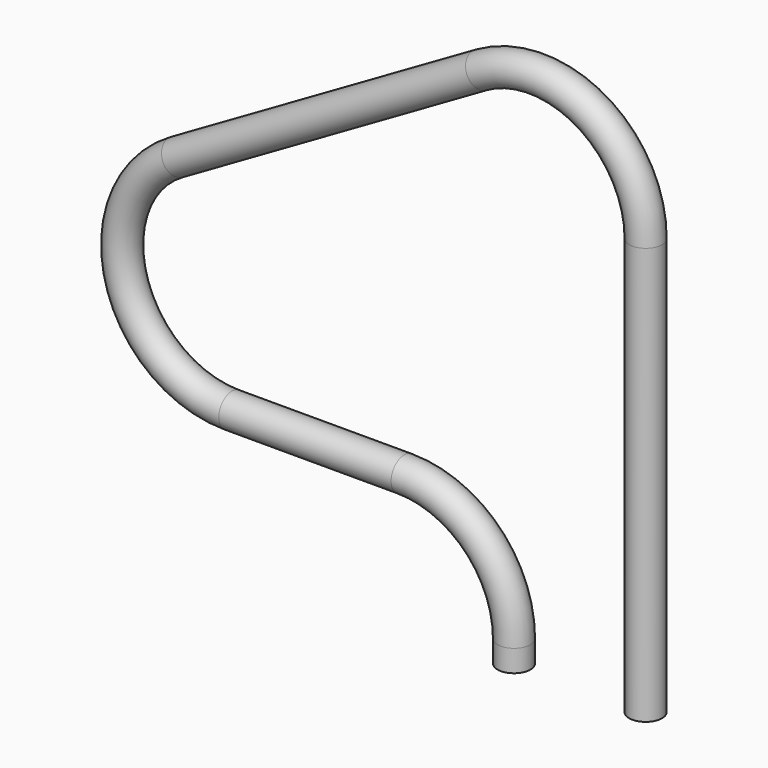
from build123d import *

# Parameters (mm, degrees)
F2_R = 38.1


with BuildPart() as f3:
    # F3: sweep along a path in F0
    with BuildLine(Plane.XZ) as f3_path:
        Line((-464.527881, 0), (-464.527881, 965.2))
        ThreePointArc((-464.527881, 965.2), (-591.527881, 1185.170453), (-845.527881, 1185.170453))
        Line((-845.527881, 1185.170453), (-1549.433329, 778.770453))
        ThreePointArc((-1549.433329, 778.770453), (-1667.778489, 493.059963), (-1422.433329, 304.8))
        Line((-1422.433329, 304.8), (-1023.327881, 304.8))
        ThreePointArc((-1023.327881, 304.8), (-843.722759, 230.405122), (-769.327881, 50.8))
        Line((-769.327881, 50.8), (-769.327881, 0))
    # F2 (on face) → F3 (sweep)
    with BuildSketch(Plane.XY):
        with Locations((-464.527881, 0)):
            Circle(F2_R)
    sweep(path=f3_path.line)


solid = f3.part
